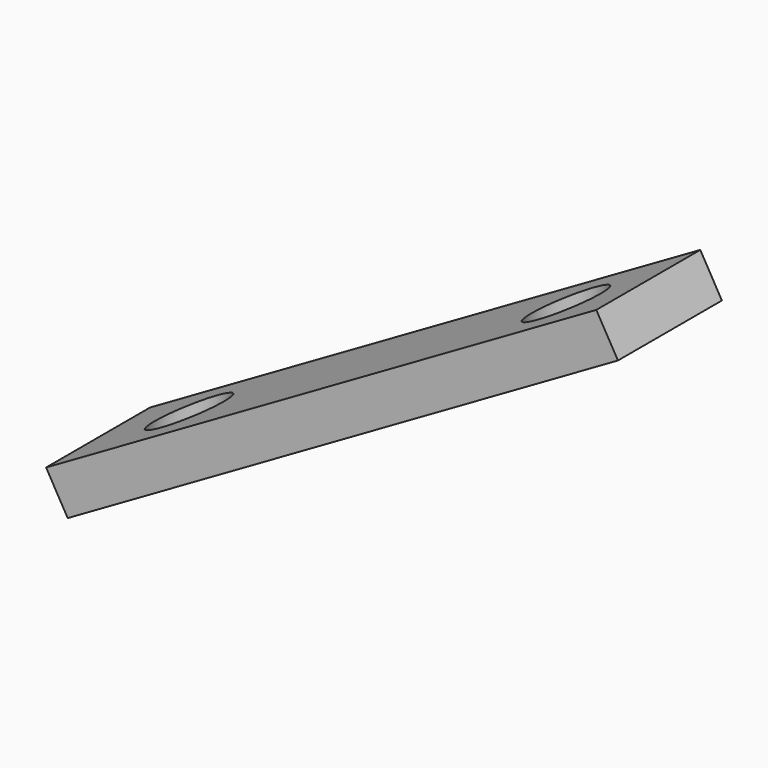
from build123d import *

# Parameters (mm, degrees)
F2_DEPTH = 15
F0_R     = 8
F3_DEPTH = 81.984738


with BuildPart() as f2:
    # F1 (on Front) → F2 (new body, symmetric)
    with BuildSketch(Plane.XZ):
        Polygon((122, 81.983738), (-5, 8.660254), (0, 0), (127, 73.323484), align=None)
    extrude(amount=F2_DEPTH, both=True)

    # F0 (on Top) → F3 (cut, through all)
    with BuildSketch(Plane.XY):
        with Locations((16, 0)):
            Circle(F0_R)
        with Locations((103, 0)):
            Circle(F0_R)
    extrude(amount=F3_DEPTH, mode=Mode.SUBTRACT)


solid = f2.part
